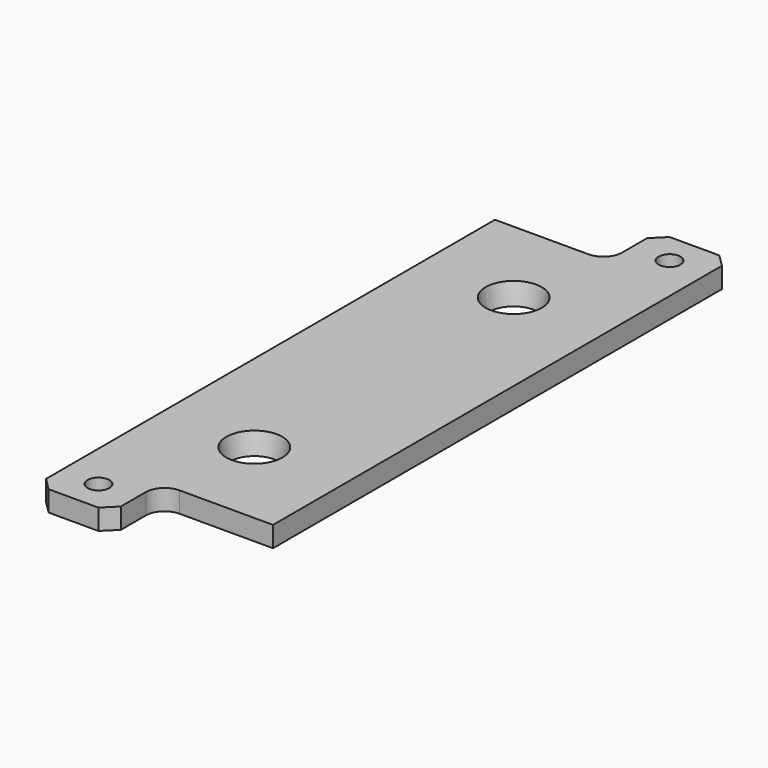
from build123d import *

# Parameters (mm, degrees)
F0_W      = 12
F0_H      = 10
F1_DEPTH  = 3.3
F2_SIZE   = 2
F3_R      = 3
F4_R      = 3
F5_R      = 1.75
F6_DEPTH  = 25
F7_R      = 2.5
F8_DEPTH  = 25
F9_R      = 4.5
F10_DEPTH = 25
F10_TAPER = 10


with BuildPart() as f1:
    # F0 (on Top) → F1 (new body)
    with BuildSketch(Plane.XY):
        Polygon((15, -41), (15, 41), (3, 41), (-15, 41), (-15, -41), (-3, -41), align=None)
        with Locations((9, 46)):
            Rectangle(F0_W, F0_H)
        with Locations((-9, -46)):
            Rectangle(F0_W, F0_H)
    extrude(amount=F1_DEPTH)

    # F2
    f2_edges = [f1.edges().sort_by_distance(p)[0] for p in [
        (15, 51, 1.65),
        (3, 51, 1.65),
        (-15, -51, 1.65),
        (-3, -51, 1.65),
    ]]
    chamfer(f2_edges, length=F2_SIZE)

    # F3
    f3_edges = [f1.edges().sort_by_distance(p)[0] for p in [
        (3, 41, 1.65),
    ]]
    fillet(f3_edges, radius=F3_R)

    # F4
    f4_edges = [f1.edges().sort_by_distance(p)[0] for p in [
        (-3, -41, 1.65),
    ]]
    fillet(f4_edges, radius=F4_R)

    # F5 (on face) → F6 (cut)
    with BuildSketch(Plane.XY.offset(3.3)):
        with Locations((9, 46)):
            Circle(F5_R)
        with Locations((-9, -46)):
            Circle(F5_R)
    extrude(amount=-F6_DEPTH, mode=Mode.SUBTRACT)

    # F7 (on face) → F8 (cut)
    with BuildSketch(Plane.XY.offset(3.3)):
        with Locations((0, 26)):
            Circle(F7_R)
        with Locations((0, -26)):
            Circle(F7_R)
    extrude(amount=-F8_DEPTH, mode=Mode.SUBTRACT)

    # F9 (on face) → F10 (cut)
    with BuildSketch(Plane.XY.offset(3.3)):
        with Locations((0, 26)):
            Circle(F9_R)
        with Locations((0, -26)):
            Circle(F9_R)
    extrude(amount=-F10_DEPTH, taper=F10_TAPER, mode=Mode.SUBTRACT)


solid = f1.part
